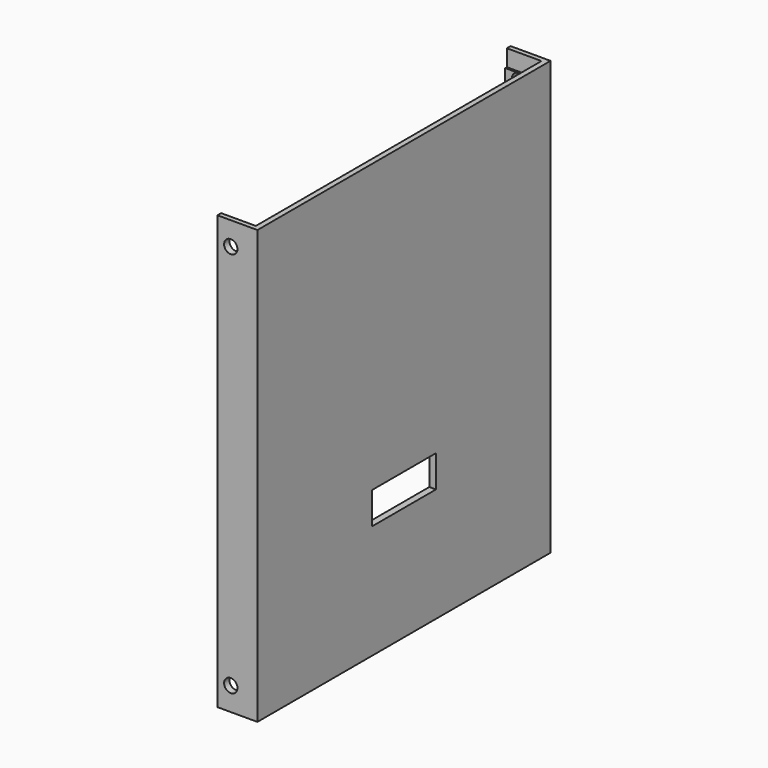
from build123d import *

# Parameters (mm, degrees)
CYLINDER066_R     = 2
CYLINDER066_DEPTH = 10
CYLINDER068_R     = 2
CYLINDER068_DEPTH = 10
CYLINDER067_R     = 2
CYLINDER067_DEPTH = 10
CYLINDER065_R     = 2
CYLINDER065_DEPTH = 10
BOX059_W          = 10
BOX059_H          = 24
BOX059_DEPTH      = 9.6
BOX055_W          = 10.4
BOX055_H          = 107.2
BOX055_DEPTH      = 5
BOX056_W          = 10.4
BOX056_H          = 107.2
BOX056_DEPTH      = 5
BOX054_W          = 10
BOX054_H          = 2
BOX054_DEPTH      = 130
BOX053_W          = 10
BOX053_H          = 2
BOX053_DEPTH      = 130
BOX052_W          = 2
BOX052_H          = 110
BOX052_DEPTH      = 130


with BuildPart() as rueck_loch002:
    # Cylinder066 → Cylinder066 (new body)
    with BuildSketch(Plane(origin=(-6, 5, 123), x_dir=(1, 0, 0), z_dir=(0, -1, 0))):
        Circle(CYLINDER066_R)
    extrude(amount=CYLINDER066_DEPTH)


with BuildPart() as rueck_loch004:
    # Cylinder068 → Cylinder068 (new body)
    with BuildSketch(Plane(origin=(-6, 115, 123), x_dir=(1, 0, 0), z_dir=(0, -1, 0))):
        Circle(CYLINDER068_R)
    extrude(amount=CYLINDER068_DEPTH)


with BuildPart() as rueck_loch003:
    # Cylinder067 → Cylinder067 (new body)
    with BuildSketch(Plane(origin=(-6, 115, 7), x_dir=(1, 0, 0), z_dir=(0, -1, 0))):
        Circle(CYLINDER067_R)
    extrude(amount=CYLINDER067_DEPTH)


with BuildPart() as obj1:
    # Cylinder065 → Cylinder065 (new body)
    with BuildSketch(Plane(origin=(-6, 5, 7), x_dir=(1, 0, 0), z_dir=(0, -1, 0))):
        Circle(CYLINDER065_R)
    extrude(amount=CYLINDER065_DEPTH)

    # Fusion033: union Rueck_Loch002, Rueck_Loch004, Rueck_Loch003
    add(rueck_loch002.part)
    add(rueck_loch004.part)
    add(rueck_loch003.part)


with BuildPart() as obj2:
    # Box059 → Box059 (new body)
    with BuildSketch(Plane(origin=(-5, 43, 34.2), x_dir=(1, 0, 0), z_dir=(0, 0, 1))):
        with Locations((5, 12)):
            Rectangle(BOX059_W, BOX059_H)
    extrude(amount=BOX059_DEPTH)


with BuildPart() as cube047:
    # Box055 → Box055 (new body)
    with BuildSketch(Plane(origin=(-10, 1.4, 0), x_dir=(1, 0, 0), z_dir=(0, 0, 1))):
        with Locations((5.2, 53.6)):
            Rectangle(BOX055_W, BOX055_H)
    extrude(amount=BOX055_DEPTH)


with BuildPart() as fusion024:
    # Box056 → Box056 (new body)
    with BuildSketch(Plane(origin=(-10, 1.4, 125), x_dir=(1, 0, 0), z_dir=(0, 0, 1))):
        with Locations((5.2, 53.6)):
            Rectangle(BOX056_W, BOX056_H)
    extrude(amount=BOX056_DEPTH)

    # Fusion024: union Cube047
    add(cube047.part)


with BuildPart() as cube046:
    # Box054 → Box054 (new body)
    with BuildSketch(Plane(origin=(-10, 108, 0), x_dir=(1, 0, 0), z_dir=(0, 0, 1))):
        with Locations((5, 1)):
            Rectangle(BOX054_W, BOX054_H)
    extrude(amount=BOX054_DEPTH)


with BuildPart() as cube045:
    # Box053 → Box053 (new body)
    with BuildSketch(Plane(origin=(-10, 0, 0), x_dir=(1, 0, 0), z_dir=(0, 0, 1))):
        with Locations((5, 1)):
            Rectangle(BOX053_W, BOX053_H)
    extrude(amount=BOX053_DEPTH)


with BuildPart() as obj3:
    # Box052 → Box052 (new body)
    with BuildSketch(Plane.XY):
        with Locations((1, 55)):
            Rectangle(BOX052_W, BOX052_H)
    extrude(amount=BOX052_DEPTH)

    # Fusion023: union Cube046, Cube045
    add(cube046.part)
    add(cube045.part)

    # Cut052: cut Fusion024
    add(fusion024.part, mode=Mode.SUBTRACT)

    # Cut054: cut obj2
    add(obj2.part, mode=Mode.SUBTRACT)

    # Cut062: cut obj1
    add(obj1.part, mode=Mode.SUBTRACT)


solid = obj3.part
